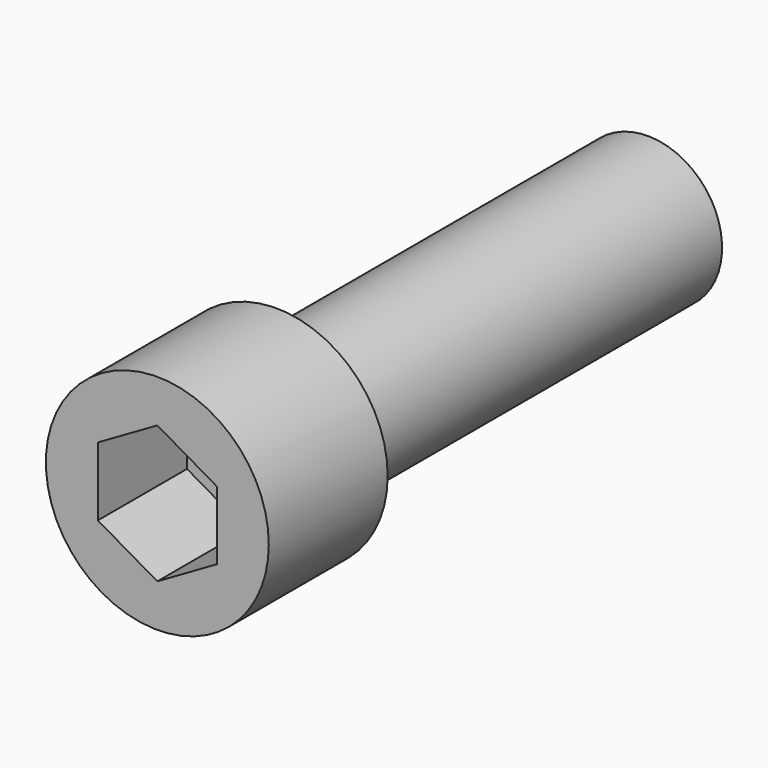
from build123d import *

# Parameters (mm, degrees)
F0_R     = 9
F1_DEPTH = 12
F2_R     = 6
F3_DEPTH = 37.5
F5_DEPTH = 9


with BuildPart() as f1:
    # F0 (on Front) → F1 (new body)
    with BuildSketch(Plane.XZ):
        Circle(F0_R)
    extrude(amount=-F1_DEPTH)

    # F2 (on face) → F3 (join)
    with BuildSketch(Plane(origin=(0, 12, 0), x_dir=(-1, 0, 0), z_dir=(0, 1, 0))):
        Circle(F2_R)
    extrude(amount=F3_DEPTH)

    # F4 (on face) → F5 (cut)
    with BuildSketch(Plane.XZ):
        Polygon((4.8, -2.771281), (4.8, 2.771281), (0, 5.542563), (-4.8, 2.771281), (-4.8, -2.771281), (0, -5.542563), align=None)
    extrude(amount=-F5_DEPTH, mode=Mode.SUBTRACT)


solid = f1.part
